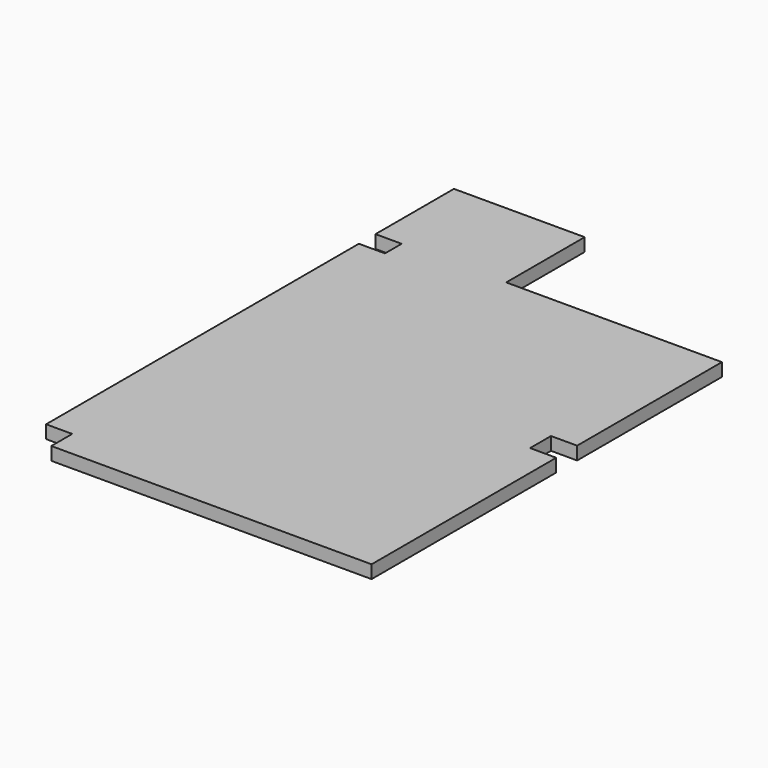
from build123d import *

# Parameters (mm, degrees)
F1_DEPTH = 5.08


with BuildPart() as f1:
    # F0 (on Top) → F1 (new body)
    with BuildSketch(Plane.XY):
        Polygon((-54.539192, 100.358322), (-54.539192, -51.574334), (-44.379192, -51.574334), (-44.379192, -61.734334), (80.080808, -61.734334), (80.080808, 27.956465), (69.920808, 27.956465), (69.920808, 38.116465), (80.080808, 38.116465), (80.080808, 108.445666), (-3.739192, 108.445666), (-3.739192, 146.545666), (-54.539192, 146.545666), (-54.539192, 108.445666), (-44.379192, 108.445666), (-44.379192, 100.358322), align=None)
    extrude(amount=F1_DEPTH)


solid = f1.part
